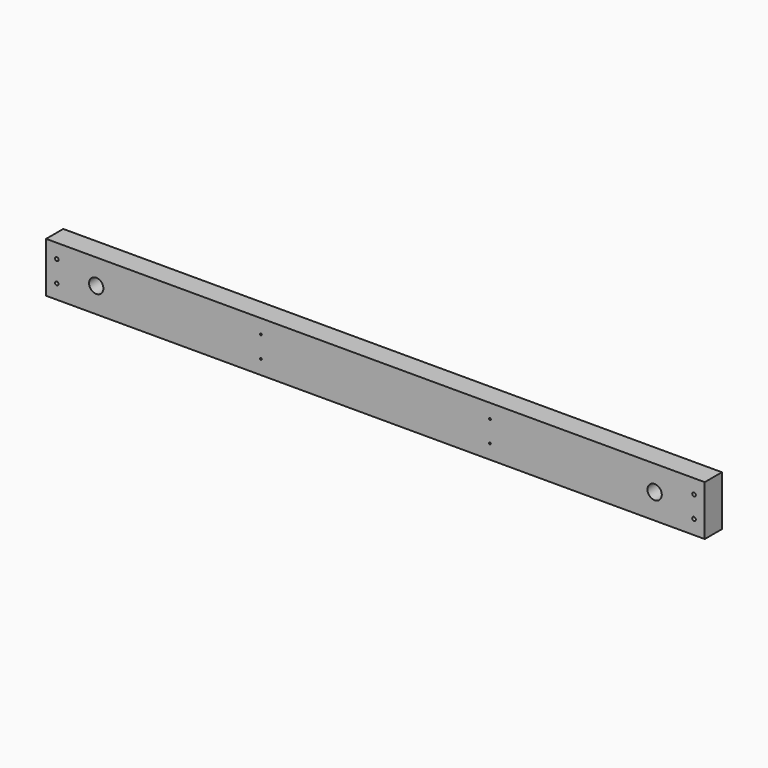
from build123d import *

# Parameters (mm, degrees)
F0_W     = 1168.4
F0_H     = 88.9
F1_DEPTH = 38.1
F3_D     = 6.35
F3_DEPTH = 12.7
F3_TIP   = 1.9077324654
F5_D     = 25.4
F7_D     = 3.175


with BuildPart() as f1:
    # F0 (on Front) → F1 (new body)
    with BuildSketch(Plane.XZ):
        with Locations((-49.923974567, 18.9100238495)):
            Rectangle(F0_W, F0_H)
    extrude(amount=F1_DEPTH)

    # F3
    with Locations(Plane.XZ.offset(38.1)):
        with Locations((515.226025433, 37.9600238495), (515.226025433, -0.1399761505), (-615.073974567, 37.9600238495), (-615.073974567, -0.1399761505)):
            Hole(F3_D / 2, depth=F3_DEPTH)
            with Locations((0, 0, -(F3_DEPTH + F3_TIP / 2))):  # 118° drill point
                Cone(0, F3_D / 2, F3_TIP, mode=Mode.SUBTRACT)

    # F5 (through all)
    with Locations(Plane.XZ.offset(38.1)):
        with Locations((-545.223974567, 18.9100238495), (445.376025433, 18.9100238495)):
            Hole(F5_D / 2)

    # F7 (through all)
    with Locations(Plane.XZ.offset(38.1)):
        with Locations((-253.123974567, 37.9600238495), (-253.123974567, -0.1399761505), (153.276025433, 37.9600238495), (153.276025433, -0.1399761505)):
            Hole(F7_D / 2)


solid = f1.part
